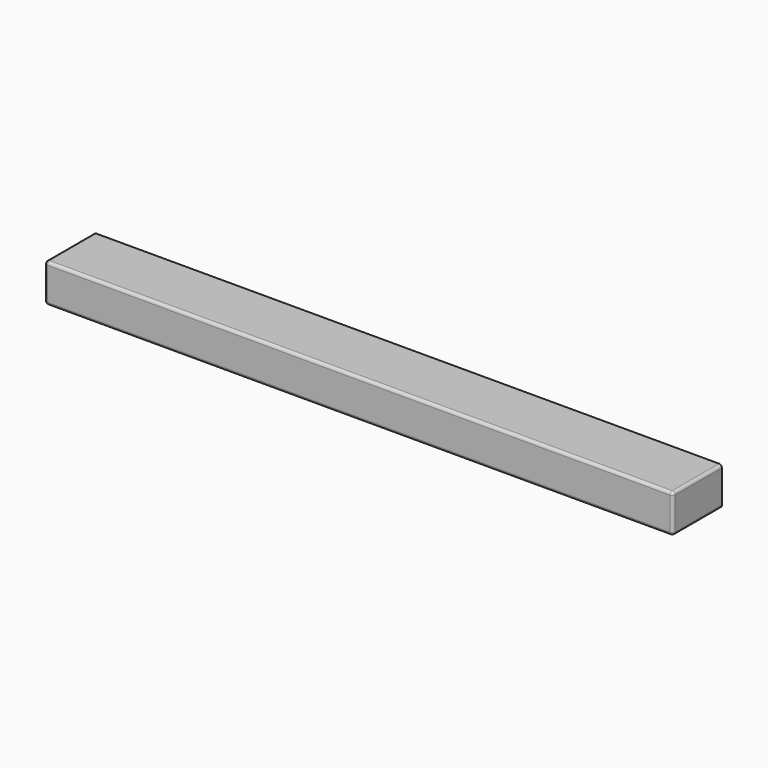
from build123d import *

# Parameters (mm, degrees)
F0_W     = 203.2
F0_H     = 127
F1_DEPTH = 1041.4
F2_R     = 9.525


with BuildPart() as f1:
    # F0 (on Right) → F1 (new body, symmetric)
    with BuildSketch(Plane.YZ):
        Rectangle(F0_W, F0_H)
    extrude(amount=F1_DEPTH, both=True)

    # F2
    f2_edges = [f1.edges().sort_by_distance(p)[0] for p in [
        (0, -101.6, 63.5),
        (-1041.4, 0, 63.5),
        (-1041.4, -101.6, 0),
        (-1041.4, 0, -63.5),
        (0, -101.6, -63.5),
        (1041.4, 0, 63.5),
        (1041.4, -101.6, 0),
        (1041.4, 0, -63.5),
    ]]
    fillet(f2_edges, radius=F2_R)


solid = f1.part
